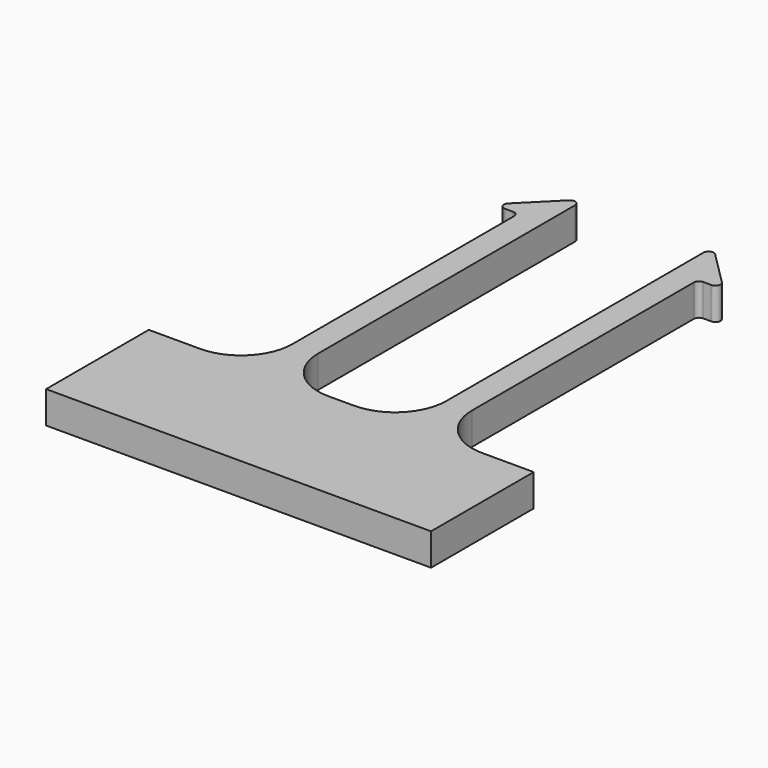
from build123d import *

# Parameters (mm, degrees)
F1_DEPTH = 3.175
F2_R     = 5.08
F3_R     = 0.508


with BuildPart() as f1:
    # F0 (on Top) → F1 (new body)
    with BuildSketch(Plane.XY):
        Polygon((0, 12.7), (0, 0), (38.1, 0), (38.1, 12.7), (27.94, 12.7), (27.94, 45.72), (30.48, 45.72), (25.4, 50.8), (25.4, 12.7), (12.7, 12.7), (12.7, 50.8), (7.62, 45.72), (10.16, 45.72), (10.16, 12.7), align=None)
    extrude(amount=F1_DEPTH)

    # F2
    f2_edges = [f1.edges().sort_by_distance(p)[0] for p in [
        (27.94, 12.7, 1.5875),
        (25.4, 12.7, 1.5875),
        (12.7, 12.7, 1.5875),
        (10.16, 12.7, 1.5875),
    ]]
    fillet(f2_edges, radius=F2_R)

    # F3
    f3_edges = [f1.edges().sort_by_distance(p)[0] for p in [
        (27.94, 45.72, 1.5875),
        (30.48, 45.72, 1.5875),
        (10.16, 45.72, 1.5875),
        (7.62, 45.72, 1.5875),
        (12.7, 50.8, 1.5875),
        (25.4, 50.8, 1.5875),
    ]]
    fillet(f3_edges, radius=F3_R)


solid = f1.part
